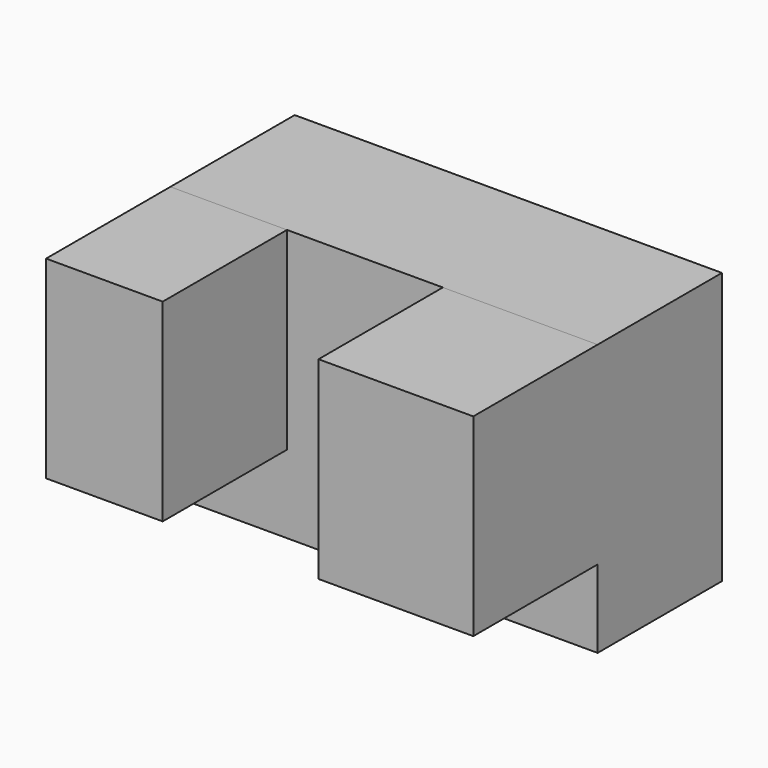
from build123d import *

# Parameters (mm, degrees)
F0_W     = 69.837786
F0_H     = 44.364519
F1_DEPTH = 25.4
F2_W     = 19.06221
F2_H     = 31.627885
F2_W_2   = 25.302306
F3_DEPTH = 25.4


with BuildPart() as f1:
    # F0 (on Front) → F1 (new body)
    with BuildSketch(Plane.XZ):
        with Locations((34.918893, 22.18226)):
            Rectangle(F0_W, F0_H)
    extrude(amount=F1_DEPTH)

    # F2 (on face) → F3 (join)
    with BuildSketch(Plane.XZ.offset(25.4)):
        with Locations((9.531105, 28.550576)):
            Rectangle(F2_W, F2_H)
        with Locations((57.186633, 28.550576)):
            Rectangle(F2_W_2, F2_H)
    extrude(amount=F3_DEPTH)


solid = f1.part
